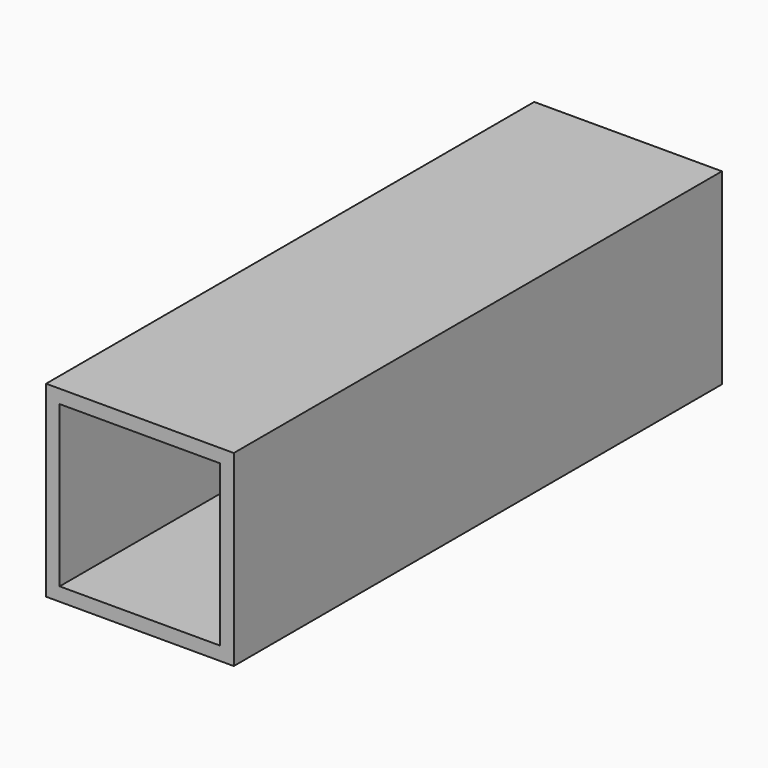
from build123d import *

# Parameters (mm, degrees)
F0_W     = 281.32242
F0_H     = 281.0992
F1_DEPTH = 914.4
F2_T     = -20.32


with BuildPart() as f1:
    # F0 (on Front) → F1 (new body)
    with BuildSketch(Plane.XZ):
        Rectangle(F0_W, F0_H)
    extrude(amount=F1_DEPTH)

    # F2
    f2_openings = [f1.faces().sort_by_distance(p)[0] for p in [
        (0, -914.4, 0),
        (0, 0, 0),
    ]]
    offset(amount=F2_T, openings=f2_openings)


solid = f1.part
